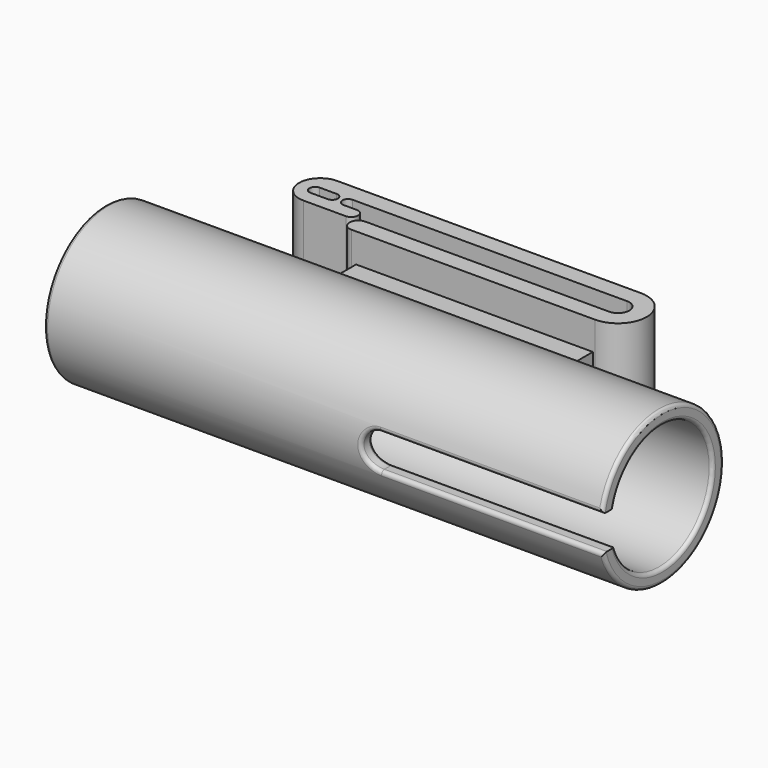
from build123d import *

# Parameters (mm, degrees)
PAD_DEPTH     = 25
SKETCH001_R   = 11
SKETCH001_R_2 = 9
PAD001_DEPTH  = 80
SKETCH003_R   = 11
SKETCH003_R_2 = 1.724065
PAD003_DEPTH  = 2
POCKET_DEPTH  = 5
PAD004_DEPTH  = 34
FILLET_R      = 0.5


with BuildPart() as part:
    # Sketch → Pad (new body)
    with BuildSketch(Plane.XY):
        with BuildLine():
            Line((-20.68693, -2.5), (14.31307, -2.5))
            ThreePointArc((14.31307, -2.5), (18.43807, 1.625), (14.31307, 5.75))
            Line((14.31307, 5.75), (-29.310484, 5.75))
            ThreePointArc((-29.310484, 5.75), (-32.354525, 2.705959), (-29.310484, -0.338083))
            Line((-29.310484, -0.338083), (-23.208912, -0.338083))
            ThreePointArc((-23.208912, -0.338083), (-22.228438, 0.642392), (-23.208912, 1.622866))
            Line((-23.208912, 1.622866), (-25.096558, 1.622866))
            ThreePointArc((-25.096558, 3.25), (-25.910125, 2.436433), (-25.096558, 1.622866))
            Line((-25.096558, 3.25), (-23.043861, 3.25))
            Line((-23.043861, 3.25), (14.31307, 3.25))
            ThreePointArc((14.31307, 0), (15.93807, 1.625), (14.31307, 3.25))
            Line((14.31307, 0), (-20.68693, 0))
            ThreePointArc((-20.68693, 0), (-21.93693, -1.25), (-20.68693, -2.5))
        make_face()
        with BuildLine():
            ThreePointArc((-29.829905, 3.25), (-30.643472, 2.436433), (-29.829905, 1.622866))
            Line((-29.829905, 1.622866), (-27.383743, 1.622866))
            ThreePointArc((-27.383743, 1.622866), (-26.570176, 2.436433), (-27.383743, 3.25))
            Line((-27.383743, 3.25), (-29.829905, 3.25))
        make_face(mode=Mode.SUBTRACT)
    extrude(amount=PAD_DEPTH)

    # Sketch001 → Pad001 (join)
    with BuildSketch(Plane.YZ.offset(-48)):
        with Locations((-12.5, 12.391484)):
            Circle(SKETCH001_R)
        with Locations((-12.5, 12.391484)):
            Circle(SKETCH001_R_2, mode=Mode.SUBTRACT)
    extrude(amount=PAD001_DEPTH)

    # Sketch003 → Pad003 (join)
    with BuildSketch(Plane.YZ.offset(-48)):
        with Locations((-12.5, 12.391484)):
            Circle(SKETCH003_R)
        with Locations((-12.5, 12.391484)):
            Circle(SKETCH003_R_2, mode=Mode.SUBTRACT)
    extrude(amount=PAD003_DEPTH)

    # Sketch004 → Pocket (cut)
    with BuildSketch(Plane.XZ.offset(20)):
        with BuildLine():
            ThreePointArc((39.088972, 9.545273), (41.588972, 12.045273), (39.088972, 14.545273))
            Line((39.088972, 14.545273), (0.033153, 14.545273))
            ThreePointArc((0.033153, 14.545273), (-2.466847, 12.045273), (0.033153, 9.545273))
            Line((0.033153, 9.545273), (39.088972, 9.545273))
        make_face()
    extrude(amount=POCKET_DEPTH, mode=Mode.SUBTRACT)

    # Sketch002 → Pad004 (join)
    with BuildSketch(Plane.YZ.offset(-20)):
        Polygon((-6.18094, 20.817627), (-1.15394, 20.817627), (-1.15394, 15.631813), (-3.60294, 15.631813), (-6.18094, 19.960645), align=None)
        Polygon((-3.60294, 9.154813), (-1.15394, 9.154813), (-1.15394, 3.969), (-6.18094, 3.969), (-6.18094, 4.825982), align=None)
    extrude(amount=PAD004_DEPTH)

    # Fillet
    fillet_edges = [part.edges().sort_by_distance(p)[0] for p in [
        (32, -11.417857, 23.338126),
        (32, -11.415197, 21.325867),
        (16.016576, -23.287085, 14.545273),
        (-2.46684, -23.494353, 12.039074),
        (16.016576, -23.125398, 9.545273),
        (16.016576, -21.238489, 14.545273),
        (-2.466829, -21.49297, 12.035825),
        (16.016576, -21.038096, 9.545273),
        (-48, -23.5, 12.391484),
    ]]
    fillet(fillet_edges, radius=FILLET_R)


solid = part.part
